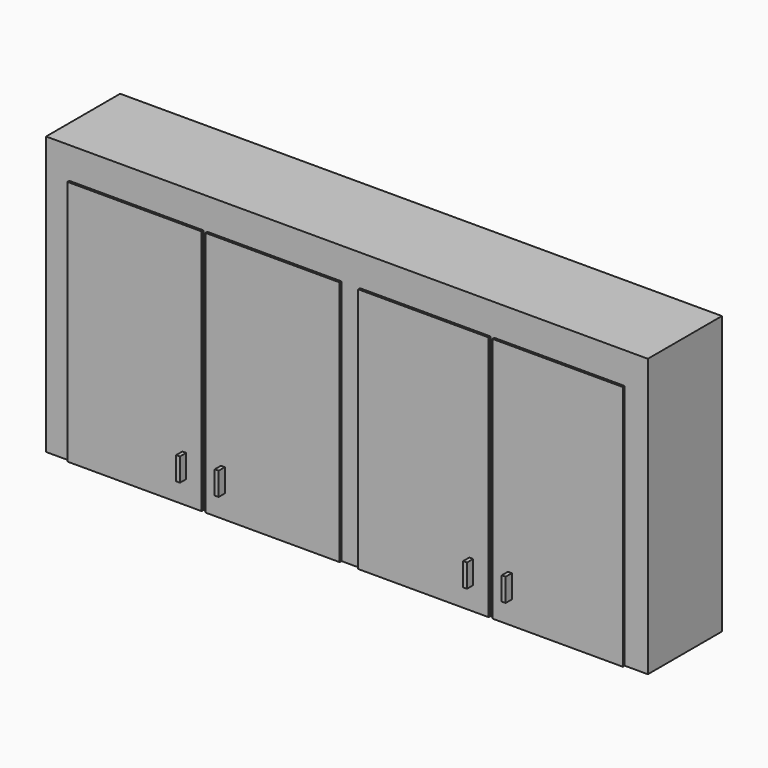
from build123d import *

# Parameters (mm, degrees)
F0_W     = 1981.2
F0_H     = 914.4
F1_DEPTH = 304.8
F2_W     = 441.96
F2_H     = 810.768
F2_W_2   = 429.26
F3_DEPTH = 7.62
F4_W     = 12.7
F4_H     = 76.2
F5_DEPTH = 25.4
F6_W     = 1803.4
F6_H     = 736.6
F7_DEPTH = 215.9


with BuildPart() as f1:
    # F0 (on Front) → F1 (new body)
    with BuildSketch(Plane.XZ):
        with Locations((990.6, 457.2)):
            Rectangle(F0_W, F0_H)
    extrude(amount=-F1_DEPTH)

    # F2 (on face) → F3 (join)
    with BuildSketch(Plane.XZ):
        with Locations((297.18, 405.384)):
            Rectangle(F2_W, F2_H)
        with Locations((751.84, 405.384)):
            Rectangle(F2_W, F2_H)
        with Locations((1248.41, 405.384)):
            Rectangle(F2_W_2, F2_H)
        with Locations((1690.37, 405.384)):
            Rectangle(F2_W_2, F2_H)
    extrude(amount=F3_DEPTH)

    # F4 (on face) → F5 (join)
    with BuildSketch(Plane.XZ.offset(7.62)):
        with Locations((1532.89, 114.3)):
            Rectangle(F4_W, F4_H)
        with Locations((1405.89, 114.3)):
            Rectangle(F4_W, F4_H)
        with Locations((588.01, 114.3)):
            Rectangle(F4_W, F4_H)
        with Locations((461.01, 114.3)):
            Rectangle(F4_W, F4_H)
    extrude(amount=F5_DEPTH)

    # F6 (on face) → F7 (cut)
    with BuildSketch(Plane(origin=(0, 304.8, 0), x_dir=(-1, 0, 0), z_dir=(0, 1, 0))):
        with Locations((-990.6, 457.2)):
            Rectangle(F6_W, F6_H)
    extrude(amount=-F7_DEPTH, mode=Mode.SUBTRACT)


solid = f1.part
